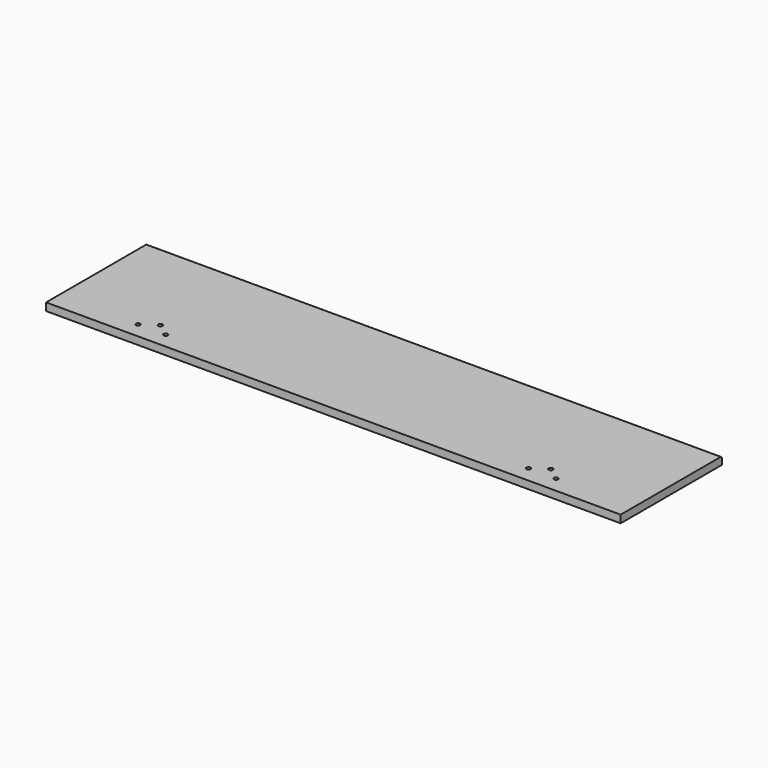
from build123d import *

# Parameters (mm, degrees)
F0_W     = 149.8
F0_H     = 33
F1_DEPTH = 2
F2_D     = 1.1
F3_R     = 0.5


with BuildPart() as f1:
    # F0 (on Top) → F1 (new body)
    with BuildSketch(Plane.XY):
        with Locations((-10.822785, 20.380608)):
            Rectangle(F0_W, F0_H)
    extrude(amount=-F1_DEPTH)

    # F2 (through all)
    with Locations(Plane.XY):
        with Locations((-65.022785, 7.980608), (-61.272785, 10.580608), (-57.822785, 7.980608), (36.677215, 8.080608), (40.427215, 10.680608), (43.877215, 8.080608)):
            Hole(F2_D / 2)

    # F3
    f3_edges = [f1.edges().sort_by_distance(p)[0] for p in [
        (-10.822785, 36.880608, 0),
    ]]
    fillet(f3_edges, radius=F3_R)


solid = f1.part
